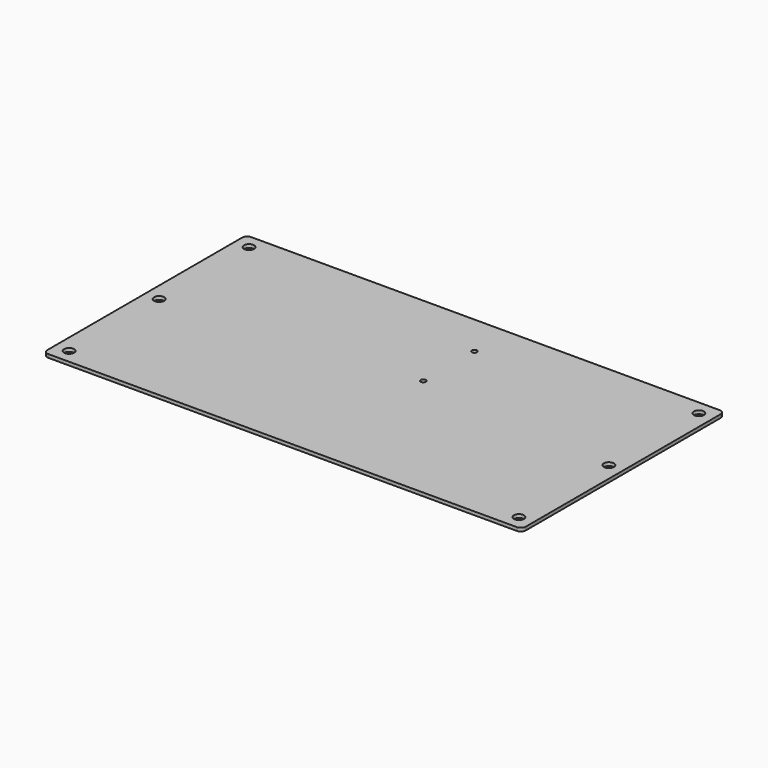
from build123d import *

# Parameters (mm, degrees)
F1_DEPTH = 2
F2_R     = 3
F3_DEPTH = 2
F4_R     = 1.525
F5_DEPTH = 2


with BuildPart() as f1:
    # F0 (on Top) → F1 (new body)
    with BuildSketch(Plane.XY):
        with BuildLine():
            Line((282, 0), (3, 0))
            ThreePointArc((3, 0), (0.87868, -0.87868), (0, -3))
            Line((0, -3), (0, -148))
            ThreePointArc((0, -148), (0.87868, -150.12132), (3, -151))
            Line((3, -151), (282, -151))
            ThreePointArc((282, -151), (284.12132, -150.12132), (285, -148))
            Line((285, -148), (285, -3))
            ThreePointArc((285, -3), (284.12132, -0.87868), (282, 0))
        make_face()
    extrude(amount=F1_DEPTH)

    # F2 (on face) → F3 (cut)
    with BuildSketch(Plane.XY.offset(2)):
        with Locations((8.5, -8.5)):
            Circle(F2_R)
        with Locations((8.5, -75.5)):
            Circle(F2_R)
        with Locations((8.5, -142.5)):
            Circle(F2_R)
        with Locations((276.5, -142.5)):
            Circle(F2_R)
        with Locations((276.5, -75.5)):
            Circle(F2_R)
        with Locations((276.5, -8.5)):
            Circle(F2_R)
    extrude(amount=-F3_DEPTH, mode=Mode.SUBTRACT)

    # F4 (on face) → F5 (cut)
    with BuildSketch(Plane.XY.offset(2)):
        with Locations((156, -63.1)):
            Circle(F4_R)
        with Locations((156, -25)):
            Circle(F4_R)
    extrude(amount=-F5_DEPTH, mode=Mode.SUBTRACT)


solid = f1.part
